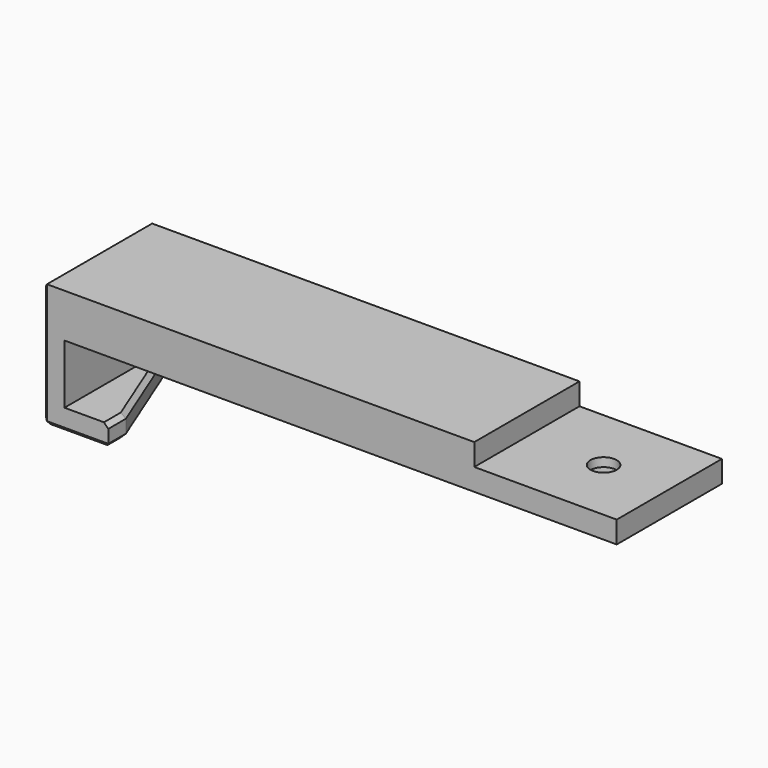
from build123d import *

# Parameters (mm, degrees)
SKETCH033_W     = 131
SKETCH033_H     = 30
PAD012_DEPTH    = 10
SKETCH032_W     = 15
SKETCH032_H     = 30
PAD011_DEPTH    = 18.5
SKETCH030_W     = 30
SKETCH030_H     = 13.5
POCKET020_DEPTH = 10
SKETCH031_R     = 3
POCKET021_DEPTH = 10.001
SKETCH034_W     = 32.5
SKETCH034_H     = 30
POCKET022_DEPTH = 5
SKETCH040_R     = 5
POCKET028_DEPTH = 3
CHAMFER_SIZE2   = 25
CHAMFER_SIZE    = 10
CHAMFER010_SIZE = 1


with BuildPart() as part:
    # Sketch033 → Pad012 (new body)
    with BuildSketch(Plane.XY):
        Rectangle(SKETCH033_W, SKETCH033_H)
    extrude(amount=PAD012_DEPTH)

    # Sketch032 (on Face5 of Pad012) → Pad011 (join)
    with BuildSketch(Plane(origin=(0, 0, 0), x_dir=(1, 0, 0), z_dir=(0, 0, -1))):
        with Locations((-58, 0)):
            Rectangle(SKETCH032_W, SKETCH032_H)
    extrude(amount=PAD011_DEPTH)

    # Sketch030 (on Face9 of Pad011) → Pocket020 (cut)
    with BuildSketch(Plane.YZ.offset(-50.5)):
        with Locations((0, -6.75)):
            Rectangle(SKETCH030_W, SKETCH030_H)
    extrude(amount=-POCKET020_DEPTH, mode=Mode.SUBTRACT)

    # Sketch031 (on Face5 of Pocket020) → Pocket021 (cut, through all)
    with BuildSketch(Plane(origin=(0, 0, 0), x_dir=(1, 0, 0), z_dir=(0, 0, -1))):
        with Locations((50.5, 0)):
            Circle(SKETCH031_R)
    extrude(amount=-POCKET021_DEPTH, mode=Mode.SUBTRACT)

    # Sketch034 → Pocket022 (cut)
    with BuildSketch(Plane.XY.offset(10)):
        with Locations((49.25, 0)):
            Rectangle(SKETCH034_W, SKETCH034_H)
    extrude(amount=-POCKET022_DEPTH, mode=Mode.SUBTRACT)

    # Sketch040 (on Face4 of Pocket022) → Pocket028 (cut)
    with BuildSketch(Plane(origin=(0, 0, 0), x_dir=(1, 0, 0), z_dir=(0, 0, -1))):
        with Locations((50.5, 0)):
            Circle(SKETCH040_R)
    extrude(amount=-POCKET028_DEPTH, mode=Mode.SUBTRACT)

    # Chamfer
    chamfer_edges = [part.edges().sort_by_distance(p)[0] for p in [
        (-50.5, 15, -16),
    ]]
    chamfer_side = part.faces().sort_by_distance((-55.5, 15, -13.73817))[0]
    chamfer(chamfer_edges, length=CHAMFER_SIZE, length2=CHAMFER_SIZE2, reference=chamfer_side)

    # Chamfer010
    chamfer010_edges = [part.edges().sort_by_distance(p)[0] for p in [
        (-55.5, 2.5, -18.5),
        (-55.5, 2.5, -13.5),
        (-50.5, -12.5, -18.5),
        (-50.5, -12.5, -13.5),
        (-58, -15, -18.5),
        (-65.5, 0, -18.5),
        (-63, 15, -18.5),
        (-65.5, -15, -9.25),
        (-65.5, -15, 5),
        (-65.5, 0, 10),
        (-65.5, 15, 5),
        (-65.5, 15, -9.25),
    ]]
    chamfer(chamfer010_edges, length=CHAMFER010_SIZE)


solid = part.part
